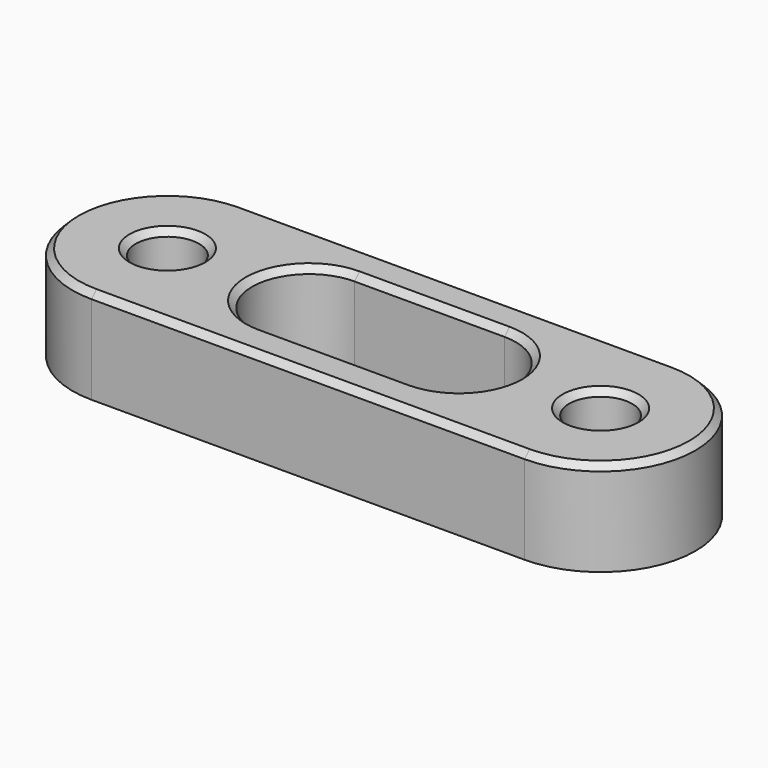
from build123d import *

# Parameters (mm, degrees)
SKETCH_R        = 5
PAD_DEPTH       = 15
CHAMFER_SIZE    = 1
CHAMFER001_SIZE = 1
CHAMFER002_SIZE = 1


with BuildPart() as part:
    # Sketch → Pad (new body)
    with BuildSketch(Plane.XY):
        with BuildLine():
            ThreePointArc((-34.25, 15), (-49.25, 0), (-34.25, -15))
            Line((-34.25, -15), (34.25, -15))
            ThreePointArc((34.25, -15), (49.25, 0), (34.25, 15))
            Line((-34.25, 15), (34.25, 15))
        make_face()
        with Locations((-34.25, 0)):
            Circle(SKETCH_R, mode=Mode.SUBTRACT)
        with Locations((34.25, 0)):
            Circle(SKETCH_R, mode=Mode.SUBTRACT)
        with BuildLine():
            ThreePointArc((-11.85289, 9), (-20.85289, 0), (-11.85289, -9))
            Line((-11.85289, -9), (11.85289, -9))
            ThreePointArc((11.85289, -9), (20.85289, 0), (11.85289, 9))
            Line((-11.85289, 9), (11.85289, 9))
        make_face(mode=Mode.SUBTRACT)
    extrude(amount=PAD_DEPTH)

    # Chamfer
    chamfer_edges = [part.edges().sort_by_distance(p)[0] for p in [
        (-39.25, 0, 15),
        (29.25, 0, 15),
    ]]
    chamfer(chamfer_edges, length=CHAMFER_SIZE)

    # Chamfer001
    chamfer001_edges = [part.edges().sort_by_distance(p)[0] for p in [
        (0, 15, 15),
        (49.25, 0, 15),
        (0, -15, 15),
        (-49.25, 0, 15),
    ]]
    chamfer(chamfer001_edges, length=CHAMFER001_SIZE)

    # Chamfer002
    chamfer002_edges = [part.edges().sort_by_distance(p)[0] for p in [
        (20.85289, 0, 15),
        (0, -9, 15),
        (-20.85289, 0, 15),
        (0, 9, 15),
    ]]
    chamfer(chamfer002_edges, length=CHAMFER002_SIZE)


solid = part.part
